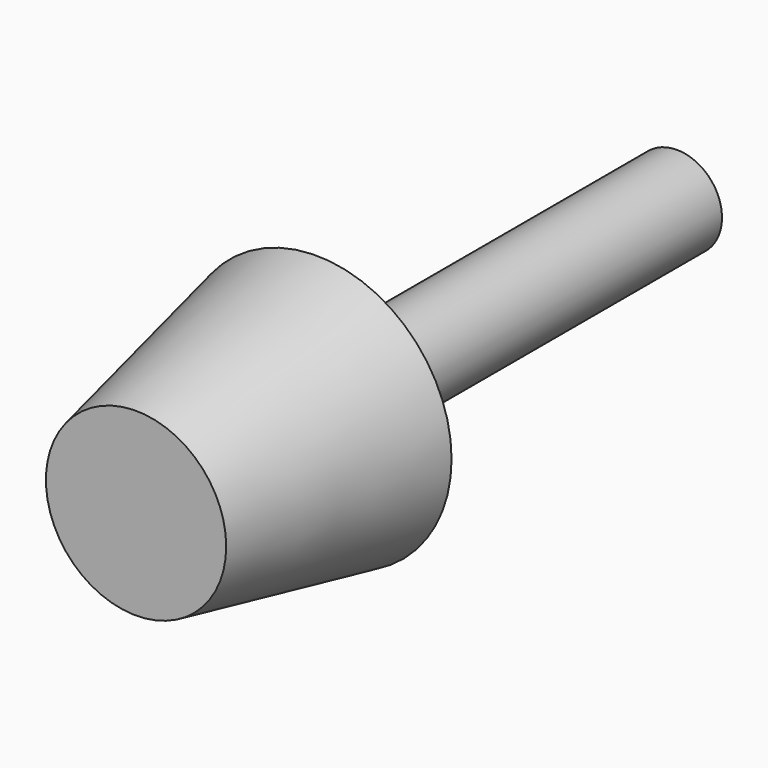
from build123d import *

# Parameters (mm, degrees)
F2_R     = 7.5
F0_R     = 5
F4_R     = 2.5
F5_DEPTH = 25


with BuildPart() as f3:
    # F2 (on offset) → F3 section 0
    with BuildSketch(Plane.XZ.offset(-12.5)):
        Circle(F2_R)
    # F0 (on Front) → F3 section 1
    with BuildSketch(Plane.XZ):
        Circle(F0_R)
    loft()

    # F4 (on face) → F5 (join)
    with BuildSketch(Plane(origin=(0, 12.5, 0), x_dir=(-1, 0, 0), z_dir=(0, 1, 0))):
        Circle(F4_R)
    extrude(amount=F5_DEPTH)


solid = f3.part
